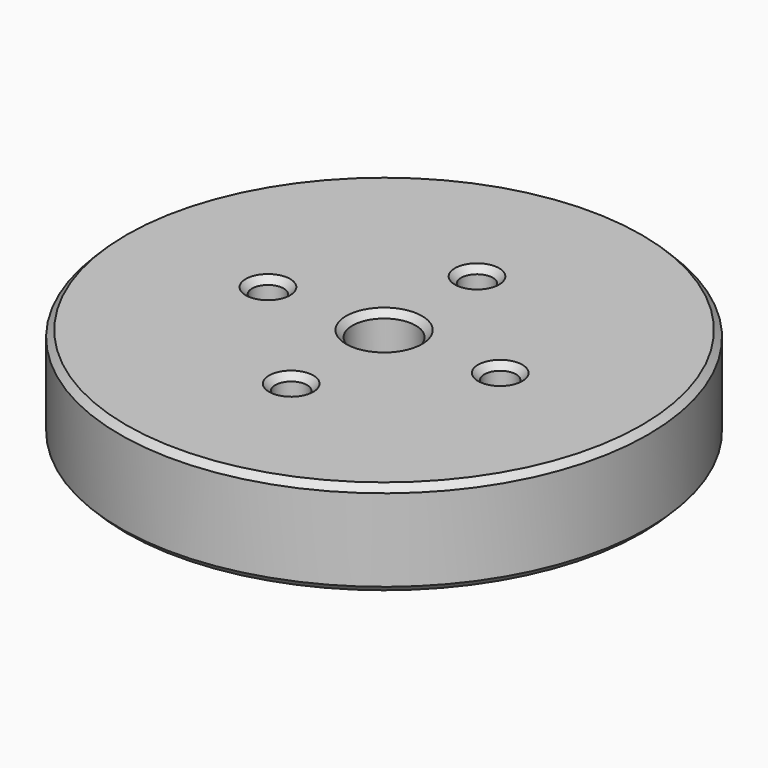
from build123d import *

# Parameters (mm, degrees)
SKETCH_R        = 25
SKETCH_R_2      = 1.5
PAD_DEPTH       = 9
SKETCH002_R     = 3
POCKET_DEPTH    = 28
SKETCH003_R     = 5.1
POCKET001_DEPTH = 1
CHAMFER_SIZE    = 0.6


with BuildPart() as part:
    # Sketch → Pad (new body)
    with BuildSketch(Plane.XY):
        Circle(SKETCH_R)
        with Locations((0, 11)):
            Circle(SKETCH_R_2, mode=Mode.SUBTRACT)
        with Locations((-11, 0)):
            Circle(SKETCH_R_2, mode=Mode.SUBTRACT)
        with Locations((0, -11)):
            Circle(SKETCH_R_2, mode=Mode.SUBTRACT)
        with Locations((11, 0)):
            Circle(SKETCH_R_2, mode=Mode.SUBTRACT)
    extrude(amount=PAD_DEPTH)

    # Sketch002 (on Face7 of Pad) → Pocket (cut)
    with BuildSketch(Plane.XY.offset(9)):
        Circle(SKETCH002_R)
    extrude(amount=-POCKET_DEPTH, mode=Mode.SUBTRACT)

    # Sketch003 (on Face2 of Pocket) → Pocket001 (cut)
    with BuildSketch(Plane(origin=(0, 0, 0), x_dir=(1, 0, 0), z_dir=(0, 0, -1))):
        Circle(SKETCH003_R)
    extrude(amount=-POCKET001_DEPTH, mode=Mode.SUBTRACT)

    # Chamfer
    chamfer_edges = [part.edges().sort_by_distance(p)[0] for p in [
        (-1.5, 11, 0),
        (-25, 0, 0),
        (9.5, 0, 0),
        (-1.5, -11, 0),
        (-12.5, 0, 0),
        (-5.1, 0, 0),
        (-3, 0, 1),
        (9.5, 0, 9),
        (-1.5, 11, 9),
        (-3, 0, 9),
        (-12.5, 0, 9),
        (-1.5, -11, 9),
        (-25, 0, 9),
    ]]
    chamfer(chamfer_edges, length=CHAMFER_SIZE)


solid = part.part
